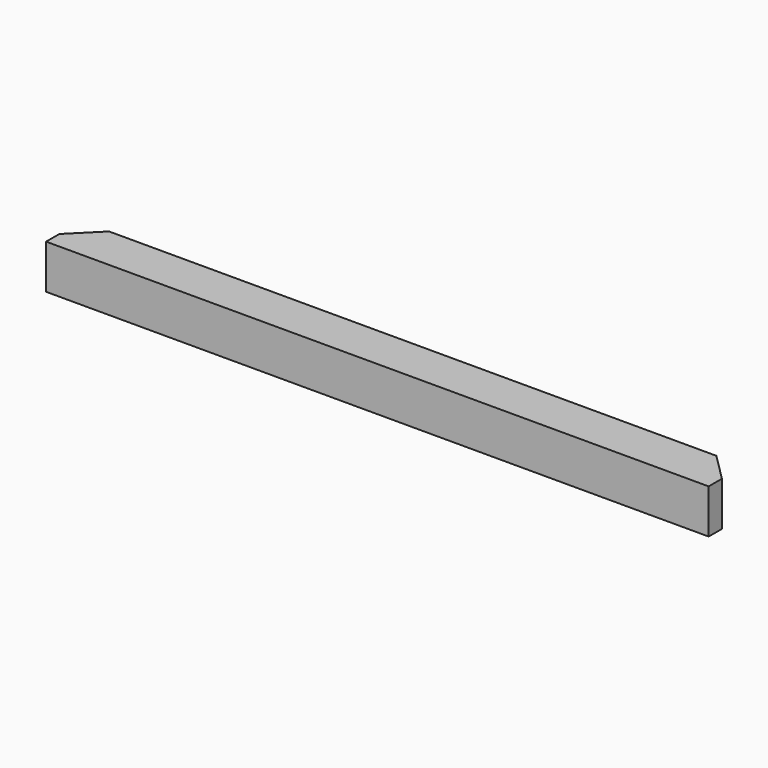
from build123d import *

# Parameters (mm, degrees)
F0_W     = 24
F0_H     = 1.6
F1_DEPTH = 1.6
F2_SIZE2 = 1
F2_SIZE  = 1
F3_SIZE  = 1


with BuildPart() as f1:
    # F0 (on Top) → F1 (new body)
    with BuildSketch(Plane.XY):
        with Locations((-17.850905, 7.283434)):
            Rectangle(F0_W, F0_H)
    extrude(amount=F1_DEPTH)

    # F2
    f2_edges = [f1.edges().sort_by_distance(p)[0] for p in [
        (-29.850905, 8.083434, 0.8),
    ]]
    chamfer(f2_edges, length=F2_SIZE, length2=F2_SIZE2)

    # F3
    f3_edges = [f1.edges().sort_by_distance(p)[0] for p in [
        (-5.850905, 8.083434, 0.8),
    ]]
    chamfer(f3_edges, length=F3_SIZE)


solid = f1.part
